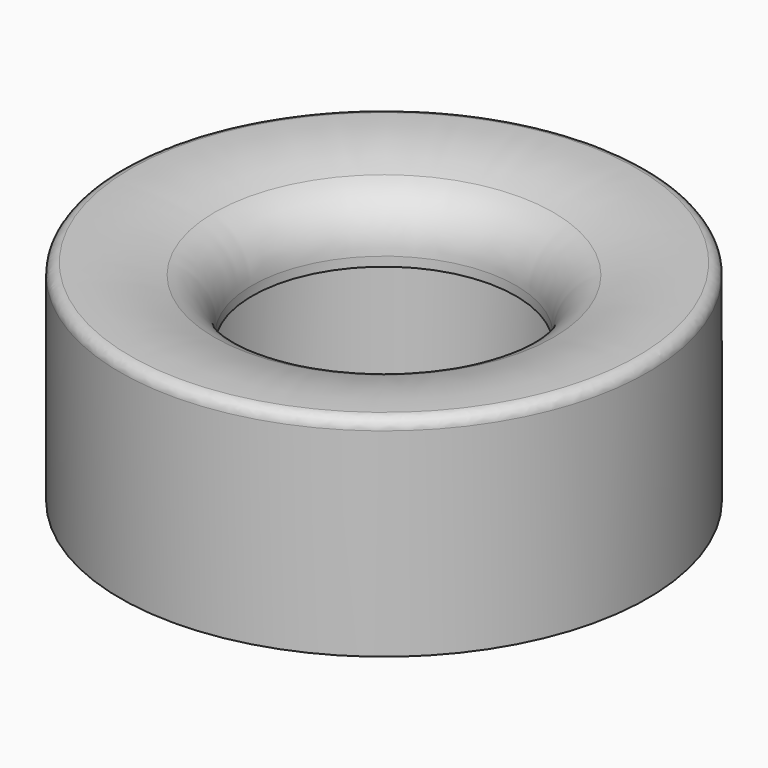
from build123d import *

# Parameters (mm, degrees)
F2_R = 2


with BuildPart() as f1:
    # F0 (on Right) → F1 (revolve)
    with BuildSketch(Plane.YZ):
        with BuildLine():
            Line((27.72, 25), (27.72, 0))
            Line((27.72, 0), (48, 0))
            Line((48, 0), (48, 38))
            ThreePointArc((48, 38), (39.310272, 38.023274), (30.820276, 36.170745))
            ThreePointArc((30.820276, 36.170745), (25.882203, 32.529384), (24, 26.689746))
            Line((24, 26.689746), (24, 25))
            Line((24, 25), (27.72, 25))
        make_face()
    revolve(axis=Axis((0, 0, 20.223878), (0, 0, 1)))

    # F2
    f2_edges = [f1.edges().sort_by_distance(p)[0] for p in [
        (0, -48, 38),
        (0, -27.72, 0),
    ]]
    fillet(f2_edges, radius=F2_R)


solid = f1.part
